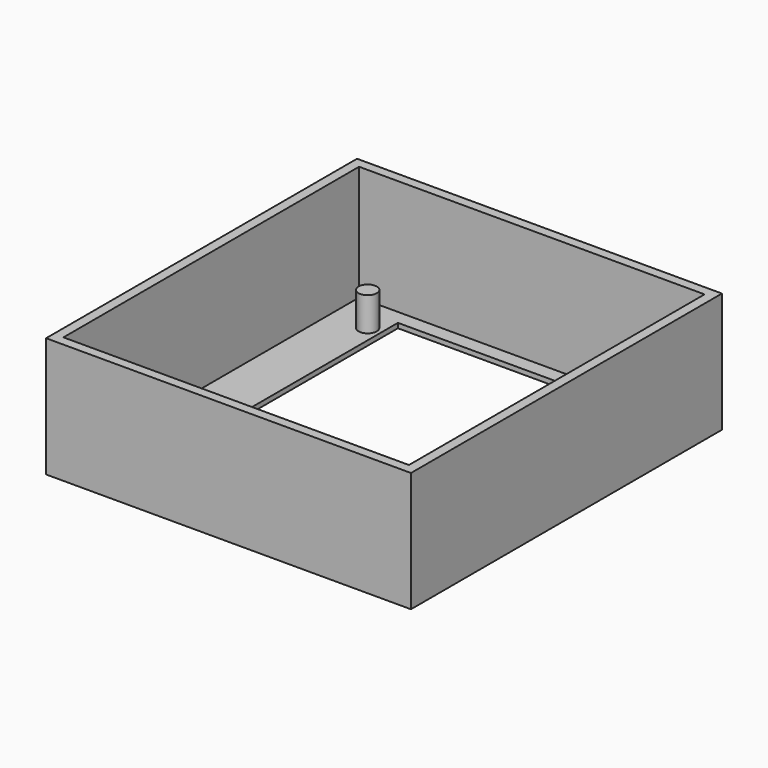
from build123d import *

# Parameters (mm, degrees)
F0_W     = 76.039264
F0_H     = 81
F0_W_2   = 72
F0_H_2   = 77
F0_R     = 1.9
F0_W_3   = 51
F0_H_3   = 71
F1_DEPTH = 1
F2_DEPTH = 25
F3_DEPTH = 8


with BuildPart() as f1:
    # F0 (on Top) → F1 (new body)
    with BuildSketch(Plane.XY):
        with Locations((0.69853, 0)):
            Rectangle(F0_W, F0_H)
        with Locations((0.69853, 0)):
            Rectangle(F0_W_2, F0_H_2, mode=Mode.SUBTRACT)
        with Locations((0.69853, 0)):
            Rectangle(F0_W_2, F0_H_2)
        with Locations((-27.50147, -32)):
            Circle(F0_R, mode=Mode.SUBTRACT)
        with Locations((31.89853, -32)):
            Circle(F0_R, mode=Mode.SUBTRACT)
        with Locations((-27.50147, 31)):
            Circle(F0_R, mode=Mode.SUBTRACT)
        with Locations((0.69853, 0)):
            Rectangle(F0_W_3, F0_H_3, mode=Mode.SUBTRACT)
        with Locations((31.89853, 31)):
            Circle(F0_R, mode=Mode.SUBTRACT)
        with Locations((31.89853, 31)):
            Circle(F0_R)
        with Locations((-27.50147, 31)):
            Circle(F0_R)
        with Locations((-27.50147, -32)):
            Circle(F0_R)
        with Locations((31.89853, -32)):
            Circle(F0_R)
    extrude(amount=F1_DEPTH)

    # F0 (on Top) → F2 (join)
    with BuildSketch(Plane.XY):
        with Locations((0.69853, 0)):
            Rectangle(F0_W, F0_H)
        with Locations((0.69853, 0)):
            Rectangle(F0_W_2, F0_H_2, mode=Mode.SUBTRACT)
    extrude(amount=F2_DEPTH)

    # F0 (on Top) → F3 (join)
    with BuildSketch(Plane.XY):
        with Locations((-27.50147, 31)):
            Circle(F0_R)
        with Locations((31.89853, 31)):
            Circle(F0_R)
        with Locations((-27.50147, -32)):
            Circle(F0_R)
        with Locations((31.89853, -32)):
            Circle(F0_R)
    extrude(amount=F3_DEPTH)


solid = f1.part
